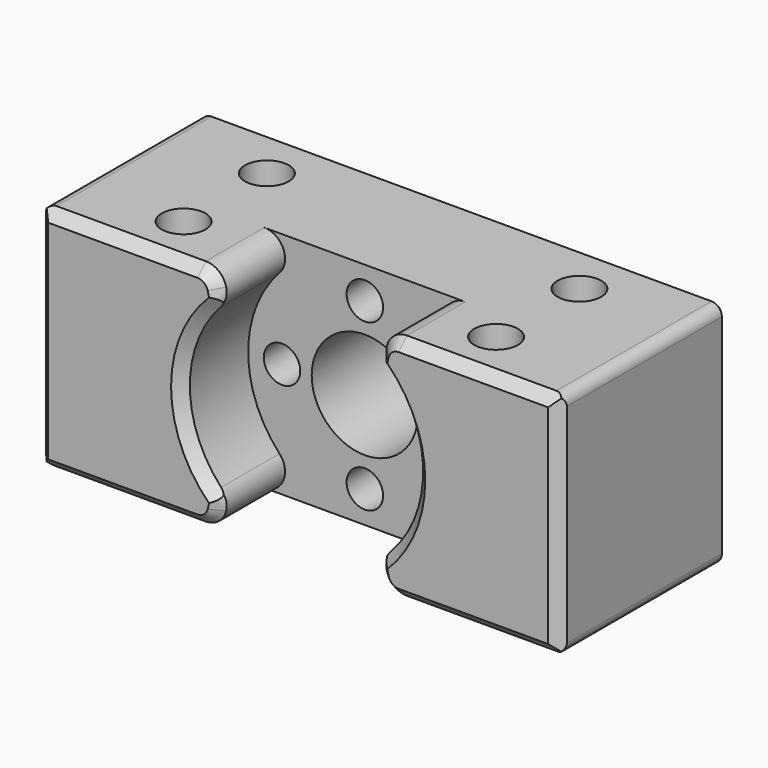
from build123d import *

# Parameters (mm, degrees)
SKETCH_W        = 50
SKETCH_H        = 20
SKETCH_R        = 2.1
PAD_DEPTH       = 22
SKETCH001_R     = 11.2
POCKET_DEPTH    = 8
SKETCH002_R     = 5.1
SKETCH002_R_2   = 1.75
POCKET001_DEPTH = 20
CHAMFER_SIZE    = 1
FILLET_R        = 2
CHAMFER001_SIZE = 1
FILLET001_R     = 1
CHAMFER002_SIZE = 0.4


with BuildPart() as part:
    # Sketch → Pad (new body)
    with BuildSketch(Plane.XY):
        with Locations((25, 10)):
            Rectangle(SKETCH_W, SKETCH_H)
        with Locations((10, 15)):
            Circle(SKETCH_R, mode=Mode.SUBTRACT)
        with Locations((10, 5)):
            Circle(SKETCH_R, mode=Mode.SUBTRACT)
        with Locations((40, 15)):
            Circle(SKETCH_R, mode=Mode.SUBTRACT)
        with Locations((40, 5)):
            Circle(SKETCH_R, mode=Mode.SUBTRACT)
    extrude(amount=PAD_DEPTH)

    # Sketch001 (on Face3 of Pad) → Pocket (cut)
    with BuildSketch(Plane.XZ):
        with Locations((25, 11)):
            Circle(SKETCH001_R)
    extrude(amount=-POCKET_DEPTH, mode=Mode.SUBTRACT)

    # Sketch002 (on Face1 of Pocket) → Pocket001 (cut)
    with BuildSketch(Plane(origin=(0, 20, 0), x_dir=(-1, 0, 0), z_dir=(0, 1, 0))):
        with Locations((-25, 11)):
            Circle(SKETCH002_R)
        with Locations((-25, 18.95)):
            Circle(SKETCH002_R_2)
        with Locations((-25, 3.05)):
            Circle(SKETCH002_R_2)
        with Locations((-32.95, 11)):
            Circle(SKETCH002_R_2)
        with Locations((-17.05, 11)):
            Circle(SKETCH002_R_2)
    extrude(amount=-POCKET001_DEPTH, mode=Mode.SUBTRACT)

    # Chamfer
    chamfer_edges = [part.edges().sort_by_distance(p)[0] for p in [
        (13.8, 0, 11),
        (33.632493, 0, 18.13583),
    ]]
    chamfer(chamfer_edges, length=CHAMFER_SIZE)

    # Fillet
    fillet_edges = [part.edges().sort_by_distance(p)[0] for p in [
        (22.892869, 4.5, 0),
        (27.107131, 4.5, 0),
        (22.892869, 4.5, 22),
        (27.107131, 4.5, 22),
    ]]
    fillet(fillet_edges, radius=FILLET_R)

    # Chamfer001
    chamfer001_edges = [part.edges().sort_by_distance(p)[0] for p in [
        (7.671957, 0, 22),
        (0, 0, 11),
        (7.671957, 0, 0),
        (42.328043, 0, 0),
        (50, 0, 11),
        (42.328043, 0, 22),
    ]]
    chamfer(chamfer001_edges, length=CHAMFER001_SIZE)

    # Fillet001
    fillet001_edges = [part.edges().sort_by_distance(p)[0] for p in [
        (0, 10.5, 0),
        (50, 10.5, 0),
        (50, 10.5, 22),
        (0, 10.5, 22),
    ]]
    fillet(fillet001_edges, radius=FILLET001_R)

    # Chamfer002
    chamfer002_edges = [part.edges().sort_by_distance(p)[0] for p in [
        (49.707107, 20, 21.707107),
        (25, 20, 22),
        (0.292893, 20, 21.707107),
        (0, 20, 11),
        (0.292893, 20, 0.292893),
        (25, 20, 0),
        (49.707107, 20, 0.292893),
        (50, 20, 11),
    ]]
    chamfer(chamfer002_edges, length=CHAMFER002_SIZE)


solid = part.part
